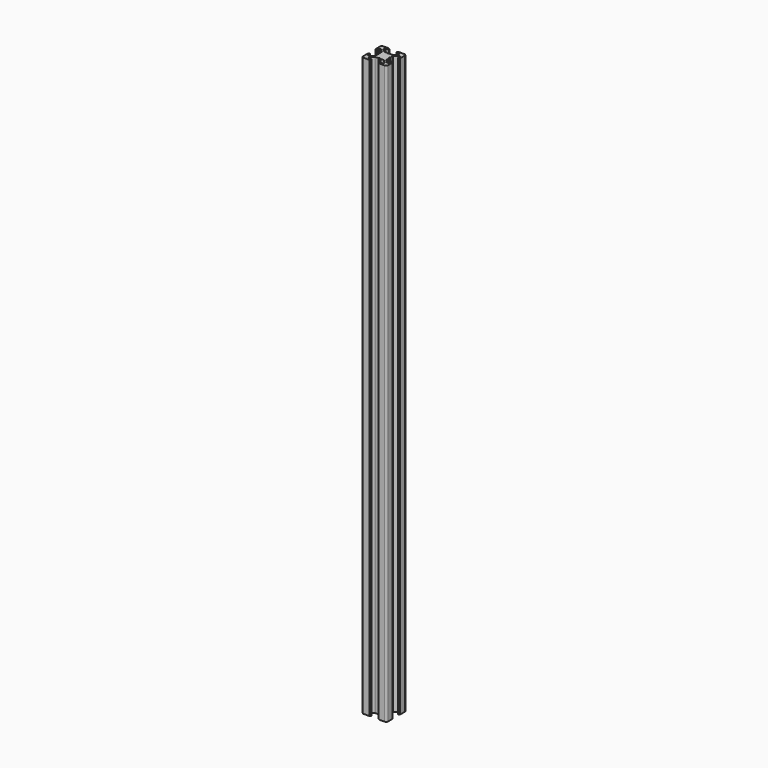
from build123d import *

# Parameters (mm, degrees)
PAD013_DEPTH    = 467.5
POCKET030_DEPTH = 467.501


with BuildPart() as pad013:
    # Sketch045 → Pad013 (new body)
    with BuildSketch(Plane(origin=(1.5, 0, 0), x_dir=(1, 0, 0), z_dir=(0, 0, 1))):
        with BuildLine():
            Line((0, 20), (4.65, 20))
            ThreePointArc((4.85, 19.8), (4.791421, 19.941421), (4.65, 20))
            Line((4.85, 19.8), (4.85, 19.5))
            Line((4.85, 19.5), (5.2, 19.5))
            ThreePointArc((5.4, 19.3), (5.341421, 19.441421), (5.2, 19.5))
            Line((5.4, 19.3), (5.4, 19))
            ThreePointArc((4.9, 18.5), (5.253553, 18.646446), (5.4, 19))
            Line((4.9, 18.5), (2.999999, 18.5))
            ThreePointArc((2.999999, 18.5), (2.646446, 18.353553), (2.499999, 18))
            Line((2.499999, 18), (2.499999, 17.267767))
            ThreePointArc((2.499999, 17.267767), (2.53806, 17.076425), (2.646446, 16.914213))
            Line((2.646446, 16.914213), (4.914213, 14.646447))
            ThreePointArc((4.914213, 14.646447), (5.076424, 14.53806), (5.267766, 14.5))
            Line((5.267766, 14.5), (7.54641, 14.5))
            ThreePointArc((7.64641, 14.473205), (7.598173, 14.493185), (7.54641, 14.5))
            Line((7.64641, 14.473205), (8.4, 14.03812))
            ThreePointArc((8.4, 14.03812), (8.5, 14.011325), (8.6, 14.03812))
            Line((8.6, 14.03812), (9.35359, 14.473205))
            ThreePointArc((9.45359, 14.5), (9.401827, 14.493185), (9.35359, 14.473205))
            Line((9.45359, 14.5), (11.732234, 14.5))
            ThreePointArc((11.732234, 14.5), (11.923576, 14.53806), (12.085787, 14.646447))
            Line((12.085787, 14.646447), (14.353554, 16.914213))
            ThreePointArc((14.353554, 16.914213), (14.46194, 17.076425), (14.500001, 17.267767))
            Line((14.500001, 17.267767), (14.500001, 18))
            ThreePointArc((14.500001, 18), (14.353554, 18.353553), (14.000001, 18.5))
            Line((14.000001, 18.5), (12.1, 18.5))
            ThreePointArc((11.6, 19), (11.746447, 18.646446), (12.1, 18.5))
            Line((11.6, 19), (11.6, 19.3))
            ThreePointArc((11.8, 19.5), (11.658579, 19.441421), (11.6, 19.3))
            Line((11.8, 19.5), (12.15, 19.5))
            Line((12.15, 19.5), (12.15, 19.8))
            ThreePointArc((12.35, 20), (12.208579, 19.941421), (12.15, 19.8))
            Line((12.35, 20), (17, 20))
            ThreePointArc((18.5, 18.5), (18.06066, 19.56066), (17, 20))
            Line((18.5, 18.5), (18.5, 13.85))
            ThreePointArc((18.3, 13.65), (18.441421, 13.708578), (18.5, 13.85))
            Line((18.3, 13.65), (18, 13.65))
            Line((18, 13.65), (18, 13.3))
            ThreePointArc((17.8, 13.1), (17.941421, 13.158579), (18, 13.3))
            Line((17.8, 13.1), (17.5, 13.1))
            ThreePointArc((17, 13.6), (17.146446, 13.246447), (17.5, 13.1))
            Line((17, 13.6), (17, 15.5))
            ThreePointArc((17, 15.5), (16.853553, 15.853553), (16.5, 16))
            Line((16.5, 16), (15.767767, 16))
            ThreePointArc((15.767767, 16), (15.576425, 15.961939), (15.414213, 15.853553))
            Line((15.414213, 15.853553), (13.146446, 13.585786))
            ThreePointArc((13.146446, 13.585786), (13.03806, 13.423574), (13, 13.232233))
            Line((13, 13.232233), (13, 10.953589))
            ThreePointArc((12.973205, 10.853589), (12.993185, 10.901825), (13, 10.953589))
            Line((12.973205, 10.853589), (12.53812, 10.1))
            ThreePointArc((12.53812, 10.1), (12.511325, 10), (12.53812, 9.9))
            Line((12.53812, 9.9), (12.973205, 9.146411))
            ThreePointArc((13, 9.046411), (12.993185, 9.098175), (12.973205, 9.146411))
            Line((13, 9.046411), (13, 6.767767))
            ThreePointArc((13, 6.767767), (13.03806, 6.576426), (13.146446, 6.414214))
            Line((13.146446, 6.414214), (15.414213, 4.146447))
            ThreePointArc((15.414213, 4.146447), (15.576425, 4.038061), (15.767767, 4))
            Line((15.767767, 4), (16.5, 4))
            ThreePointArc((16.5, 4), (16.853553, 4.146447), (17, 4.5))
            Line((17, 4.5), (17, 6.4))
            ThreePointArc((17.5, 6.9), (17.146446, 6.753553), (17, 6.4))
            Line((17.5, 6.9), (17.8, 6.9))
            ThreePointArc((18, 6.7), (17.941421, 6.841421), (17.8, 6.9))
            Line((18, 6.7), (18, 6.35))
            Line((18, 6.35), (18.3, 6.35))
            ThreePointArc((18.5, 6.15), (18.441421, 6.291422), (18.3, 6.35))
            Line((18.5, 6.15), (18.5, 1.5))
            ThreePointArc((17, 0), (18.06066, 0.43934), (18.5, 1.5))
            Line((17, 0), (12.35, 0))
            ThreePointArc((12.15, 0.2), (12.208579, 0.058579), (12.35, 0))
            Line((12.15, 0.2), (12.15, 0.5))
            Line((12.15, 0.5), (11.8, 0.5))
            ThreePointArc((11.6, 0.7), (11.658579, 0.558579), (11.8, 0.5))
            Line((11.6, 0.7), (11.6, 1))
            ThreePointArc((12.1, 1.5), (11.746447, 1.353554), (11.6, 1))
            Line((12.1, 1.5), (14.000001, 1.5))
            ThreePointArc((14.000001, 1.5), (14.353554, 1.646447), (14.500001, 2))
            Line((14.500001, 2), (14.500001, 2.732233))
            ThreePointArc((14.500001, 2.732233), (14.46194, 2.923575), (14.353554, 3.085787))
            Line((14.353554, 3.085787), (12.085787, 5.353553))
            ThreePointArc((12.085787, 5.353553), (11.923576, 5.46194), (11.732234, 5.5))
            Line((11.732234, 5.5), (9.45359, 5.5))
            ThreePointArc((9.35359, 5.526795), (9.401827, 5.506815), (9.45359, 5.5))
            Line((9.35359, 5.526795), (8.6, 5.96188))
            ThreePointArc((8.6, 5.96188), (8.5, 5.988675), (8.4, 5.96188))
            Line((8.4, 5.96188), (7.64641, 5.526795))
            ThreePointArc((7.54641, 5.5), (7.598173, 5.506815), (7.64641, 5.526795))
            Line((7.54641, 5.5), (5.267766, 5.5))
            ThreePointArc((5.267766, 5.5), (5.076424, 5.46194), (4.914213, 5.353553))
            Line((4.914213, 5.353553), (2.646446, 3.085787))
            ThreePointArc((2.646446, 3.085787), (2.53806, 2.923575), (2.499999, 2.732233))
            Line((2.499999, 2.732233), (2.499999, 2))
            ThreePointArc((2.499999, 2), (2.646446, 1.646447), (2.999999, 1.5))
            Line((2.999999, 1.5), (4.9, 1.5))
            ThreePointArc((5.4, 1), (5.253553, 1.353554), (4.9, 1.5))
            Line((5.4, 1), (5.4, 0.7))
            ThreePointArc((5.2, 0.5), (5.341421, 0.558579), (5.4, 0.7))
            Line((5.2, 0.5), (4.85, 0.5))
            Line((4.85, 0.5), (4.85, 0.2))
            ThreePointArc((4.65, 0), (4.791421, 0.058579), (4.85, 0.2))
            Line((4.65, 0), (0, 0))
            ThreePointArc((-1.5, 1.5), (-1.06066, 0.43934), (0, 0))
            Line((-1.5, 1.5), (-1.5, 6.15))
            ThreePointArc((-1.3, 6.35), (-1.441421, 6.291422), (-1.5, 6.15))
            Line((-1.3, 6.35), (-1, 6.35))
            Line((-1, 6.35), (-1, 6.7))
            ThreePointArc((-0.8, 6.9), (-0.941421, 6.841421), (-1, 6.7))
            Line((-0.8, 6.9), (-0.5, 6.9))
            ThreePointArc((0, 6.4), (-0.146446, 6.753553), (-0.5, 6.9))
            Line((0, 6.4), (0, 4.5))
            ThreePointArc((0, 4.5), (0.146447, 4.146447), (0.5, 4))
            Line((0.5, 4), (1.232233, 4))
            ThreePointArc((1.232233, 4), (1.423575, 4.038061), (1.585787, 4.146447))
            Line((1.585787, 4.146447), (3.853554, 6.414214))
            ThreePointArc((3.853554, 6.414214), (3.96194, 6.576426), (4, 6.767767))
            Line((4, 6.767767), (4, 9.046411))
            ThreePointArc((4.026795, 9.146411), (4.006815, 9.098175), (4, 9.046411))
            Line((4.026795, 9.146411), (4.46188, 9.9))
            ThreePointArc((4.46188, 9.9), (4.488675, 10), (4.46188, 10.1))
            Line((4.46188, 10.1), (4.026795, 10.853589))
            ThreePointArc((4, 10.953589), (4.006815, 10.901825), (4.026795, 10.853589))
            Line((4, 10.953589), (4, 13.232233))
            ThreePointArc((4, 13.232233), (3.96194, 13.423574), (3.853554, 13.585786))
            Line((3.853554, 13.585786), (1.585787, 15.853553))
            ThreePointArc((1.585787, 15.853553), (1.423575, 15.961939), (1.232233, 16))
            Line((1.232233, 16), (0.5, 16))
            ThreePointArc((0.5, 16), (0.146447, 15.853553), (0, 15.5))
            Line((0, 15.5), (0, 13.6))
            ThreePointArc((-0.5, 13.1), (-0.146446, 13.246447), (0, 13.6))
            Line((-0.5, 13.1), (-0.8, 13.1))
            ThreePointArc((-1, 13.3), (-0.941421, 13.158579), (-0.8, 13.1))
            Line((-1, 13.3), (-1, 13.65))
            Line((-1, 13.65), (-1.3, 13.65))
            ThreePointArc((-1.5, 13.85), (-1.441421, 13.708578), (-1.3, 13.65))
            Line((-1.5, 13.85), (-1.5, 18.5))
            ThreePointArc((0, 20), (-1.06066, 19.56066), (-1.5, 18.5))
        make_face()
    extrude(amount=PAD013_DEPTH)


with BuildPart() as fusion031:
    # Pocket030 base: copy of Pad013
    add(pad013.part)

    # Sketch046 → Pocket030 (cut, through all)
    with BuildSketch(Plane(origin=(1.5, 0, 467.5), x_dir=(1, 0, 0), z_dir=(0, 0, 1))):
        with BuildLine():
            ThreePointArc((6.586105, 12.989641), (5.988263, 12.50841), (5.507825, 11.909931))
            Line((6.054705, 11.258185), (5.507825, 11.909931))
            ThreePointArc((6.054705, 11.258185), (5.75, 10), (6.054705, 8.741815))
            Line((5.507825, 8.090069), (6.054705, 8.741815))
            ThreePointArc((5.507825, 8.090069), (5.988263, 7.49159), (6.586105, 7.010359))
            Line((7.241815, 7.554705), (6.586105, 7.010359))
            ThreePointArc((7.241815, 7.554705), (8.5, 7.25), (9.758185, 7.554705))
            Line((10.413895, 7.010359), (9.758185, 7.554705))
            ThreePointArc((10.413895, 7.010359), (11.011737, 7.49159), (11.492175, 8.090069))
            Line((10.945295, 8.741815), (11.492175, 8.090069))
            ThreePointArc((10.945295, 8.741815), (11.25, 10), (10.945295, 11.258185))
            Line((11.492175, 11.909931), (10.945295, 11.258185))
            ThreePointArc((11.492175, 11.909931), (11.011737, 12.50841), (10.413895, 12.989641))
            Line((9.758185, 12.445295), (10.413895, 12.989641))
            ThreePointArc((9.758185, 12.445295), (8.5, 12.75), (7.241815, 12.445295))
            Line((6.586105, 12.989641), (7.241815, 12.445295))
        make_face()
    extrude(amount=-POCKET030_DEPTH, mode=Mode.SUBTRACT)

    # Fusion031: union Pad013
    add(pad013.part)


with BuildPart() as fusion031_1:
    # Fusion031 placement: moved
    add(fusion031.part.moved(Location((197, 124, -544.5))))


solid = fusion031_1.part
